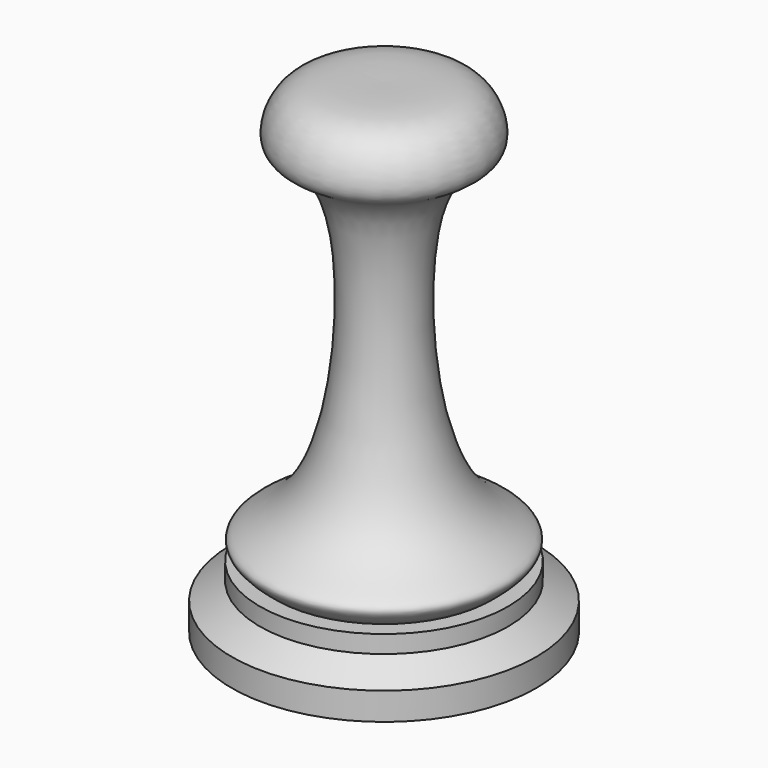
from build123d import *


with BuildPart() as f1:
    # F0 (on Front) → F1 (revolve)
    with BuildSketch(Plane.XZ):
        with BuildLine():
            Line((-63.5, -126.2160516043), (0, -126.2160516043))
            Line((0, -126.2160516043), (0, 75.7359191775))
            add(Edge.make_bspline(
                [(-44.7453334928, -100.0493168831), (-48.3573103316, -97.1066867019), (-57.8923218993, -89.3386377723), (-15.1571750456, -80.0863506132), (-10.5165945171, 47.4878259762), (-44.1550857534, 48.4887375589), (-36.820526718, 74.6482005564), (-14.8125222459, 75.9702509169), (-4.6864009309, 75.8100572928), (0, 75.7359191775)],
                knots=[0, 0, 0, 0, 0.0898620713, 0.2372207595, 0.5278694441, 0.6533742786, 0.769741399, 0.8934355921, 1, 1, 1, 1], degree=3))
            Line((-44.7453334928, -100.0493168831), (-51.7767444253, -100.0493168831))
            Line((-51.7767444253, -100.0493168831), (-51.7767444253, -107.4003428221))
            Line((-51.7767444253, -107.4003428221), (-63.5, -114.7513613105))
            Line((-63.5, -114.7513613105), (-63.5, -126.2160516043))
        make_face()
    revolve(axis=Axis((0, 0, -25.2400662134), (0, 0, -1)))


solid = f1.part
